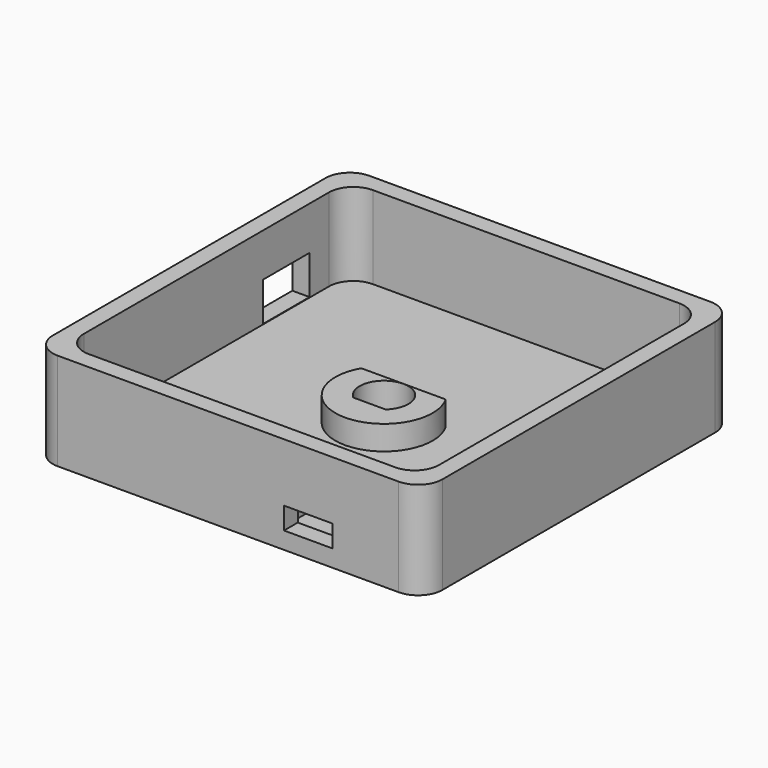
from build123d import *

# Parameters (mm, degrees)
PAD_DEPTH       = 20
SKETCH001_W     = 75
SKETCH001_H     = 75
PAD001_DEPTH    = 3
SKETCH003_W     = 10
SKETCH003_H     = 4.5
POCKET001_DEPTH = 3.535534
SKETCH004_W     = 3
SKETCH004_H     = 8
PAD002_DEPTH    = 7
PAD003_DEPTH    = 5
SKETCH006_W     = 12
SKETCH006_H     = 8
POCKET002_DEPTH = 3.535534
SKETCH002_R     = 3.5
POCKET_DEPTH    = 8


with BuildPart() as part:
    # Sketch → Pad (new body)
    with BuildSketch(Plane.XY):
        with BuildLine():
            Line((-35, 40), (35, 40))
            ThreePointArc((40, 35), (38.535534, 38.535534), (35, 40))
            Line((40, 35), (40, -35))
            ThreePointArc((35, -40), (38.535534, -38.535534), (40, -35))
            Line((35, -40), (-35, -40))
            ThreePointArc((-40, -35), (-38.535534, -38.535534), (-35, -40))
            Line((-40, -35), (-40, 35))
            ThreePointArc((-35, 40), (-38.535534, 38.535534), (-40, 35))
        make_face()
        with BuildLine():
            Line((-31.464466, 36.464466), (31.464466, 36.464466))
            ThreePointArc((36.464466, 31.464466), (35, 35), (31.464466, 36.464466))
            Line((36.464466, 31.464466), (36.464466, -31.464466))
            ThreePointArc((31.464466, -36.464466), (35, -35), (36.464466, -31.464466))
            Line((31.464466, -36.464466), (-31.464466, -36.464466))
            ThreePointArc((-36.464466, -31.464466), (-35, -35), (-31.464466, -36.464466))
            Line((-36.464466, -31.464466), (-36.464466, 31.464466))
            ThreePointArc((-31.464466, 36.464466), (-35, 35), (-36.464466, 31.464466))
        make_face(mode=Mode.SUBTRACT)
    extrude(amount=PAD_DEPTH)

    # Sketch001 (on Face17 of Pad) → Pad001 (join)
    with BuildSketch(Plane(origin=(0, 0, 0), x_dir=(1, 0, 0), z_dir=(0, 0, -1))):
        Rectangle(SKETCH001_W, SKETCH001_H)
    extrude(amount=-PAD001_DEPTH)

    # Sketch003 → Pocket001 (cut)
    with BuildSketch(Plane(origin=(0, -36.464466, 0), x_dir=(-1, 0, 0), z_dir=(0, 1, 0))):
        with Locations((-16.464466, 5.75)):
            Rectangle(SKETCH003_W, SKETCH003_H)
    extrude(amount=-POCKET001_DEPTH, mode=Mode.SUBTRACT)

    # Sketch004 (on Face15 of Pocket001) → Pad002 (join)
    with BuildSketch(Plane(origin=(0, -36.464466, 0), x_dir=(-1, 0, 0), z_dir=(0, 1, 0))):
        with Locations((-24.464466, 7)):
            Rectangle(SKETCH004_W, SKETCH004_H)
        with Locations((-8.464466, 7)):
            Rectangle(SKETCH004_W, SKETCH004_H)
    extrude(amount=PAD002_DEPTH)

    # Sketch005 (on Face25 of Pad002) → Pad003 (join)
    with BuildSketch(Plane.XY.offset(3)):
        with BuildLine():
            ThreePointArc((-8.660254, 5), (0, -10), (8.660254, 5))
            Line((-8.660254, 5), (8.660254, 5))
        make_face()
    extrude(amount=PAD003_DEPTH)

    # Sketch006 → Pocket002 (cut)
    with BuildSketch(Plane.YZ.offset(-36.464466)):
        with Locations((20.464466, 7.1)):
            Rectangle(SKETCH006_W, SKETCH006_H)
    extrude(amount=-POCKET002_DEPTH, mode=Mode.SUBTRACT)

    # Sketch002 (on Face20 of Pad001) → Pocket (cut)
    with BuildSketch(Plane(origin=(0, 0, 0), x_dir=(1, 0, 0), z_dir=(0, 0, -1))):
        with Locations((31.464466, 31.464466)):
            Circle(SKETCH002_R)
        with BuildLine():
            ThreePointArc((-3.307189, 3.75), (0, -5), (3.307189, 3.75))
            Line((-3.307189, 3.75), (3.307189, 3.75))
        make_face()
    extrude(amount=-POCKET_DEPTH, mode=Mode.SUBTRACT)


solid = part.part
